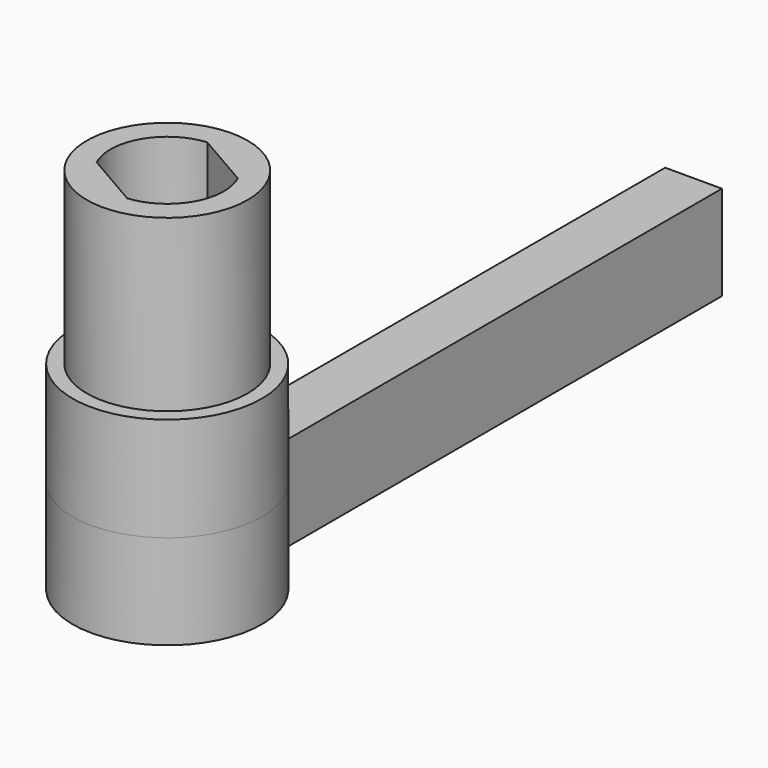
from build123d import *

# Parameters (mm, degrees)
F0_R     = 8.5
F1_DEPTH = 18
F3_DEPTH = 11
F4_R     = 10
F5_DEPTH = 11
F7_DEPTH = 10


with BuildPart() as f1:
    # F0 (on Top) → F1 (new body)
    with BuildSketch(Plane.XY):
        Circle(F0_R)
        with BuildLine():
            ThreePointArc((-5.44875, -2.512196), (-5.196152, 3), (-0.54875, 5.974853))
            Line((-0.54875, 5.974853), (5.44875, 2.512196))
            ThreePointArc((5.44875, 2.512196), (5.196152, -3), (0.54875, -5.974853))
            Line((0.54875, -5.974853), (-5.44875, -2.512196))
        make_face(mode=Mode.SUBTRACT)
    extrude(amount=F1_DEPTH)

    # F2 (on Top) → F3 (join)
    with BuildSketch(Plane.XY):
        Polygon((0.509195, 6.881952), (-5.705348, -3.881952), (-0.509195, -6.881952), (0, -6), (5.705348, 3.881952), align=None)
    extrude(amount=F3_DEPTH)

    # F4 (on Top) → F5 (join)
    with BuildSketch(Plane.XY):
        Circle(F4_R)
    extrude(amount=-F5_DEPTH)

    # F6 (on face) → F7 (join)
    with BuildSketch(Plane(origin=(0, 0, -11), x_dir=(1, 0, 0), z_dir=(0, 0, -1))):
        with BuildLine():
            Line((3, -69.539392), (3, -9.539392))
            ThreePointArc((3, -9.539392), (0, 10), (-3, -9.539392))
            Line((-3, -9.539392), (-3, -69.539392))
            Line((-3, -69.539392), (3, -69.539392))
        make_face()
    extrude(amount=F7_DEPTH)


solid = f1.part
